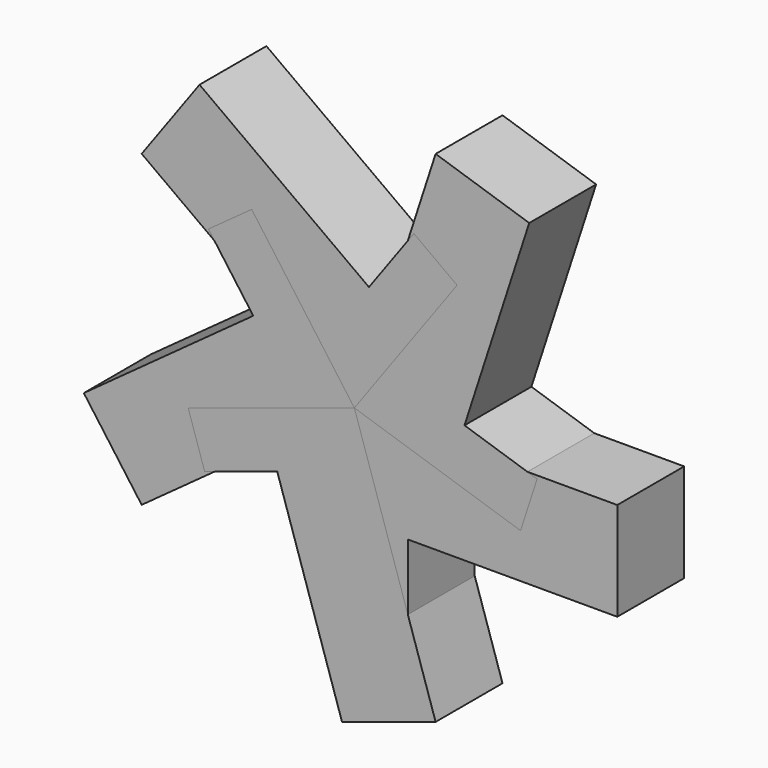
from build123d import *

# Parameters (mm, degrees)
F1_DEPTH = 80.093717
F2_COUNT = 5


with BuildPart() as f1:
    # F0 (on Front) → F1 (new body)
    with BuildSketch(Plane.XZ):
        Polygon((-152.989015, 94.265357), (-152.989015, -73.102102), (-101.77812, -73.102102), (-101.77812, 0), (98.808289, 0), (98.808289, 94.265357), align=None)
    extrude(amount=F1_DEPTH)


with BuildPart() as f2_1:
    # F2: instance of F1
    add(f1.part.rotate(Axis((-152.989015, -40.046859, 94.265357), (0, -1, 0)), 1 * 360 / F2_COUNT))


with BuildPart() as f2_2:
    # F2: instance of F1
    add(f1.part.rotate(Axis((-152.989015, -40.046859, 94.265357), (0, -1, 0)), 2 * 360 / F2_COUNT))


with BuildPart() as f2_3:
    # F2: instance of F1
    add(f1.part.rotate(Axis((-152.989015, -40.046859, 94.265357), (0, -1, 0)), 3 * 360 / F2_COUNT))


with BuildPart() as f2_4:
    # F2: instance of F1
    add(f1.part.rotate(Axis((-152.989015, -40.046859, 94.265357), (0, -1, 0)), 4 * 360 / F2_COUNT))


solid = Compound([f1.part, f2_1.part, f2_2.part, f2_3.part, f2_4.part])
